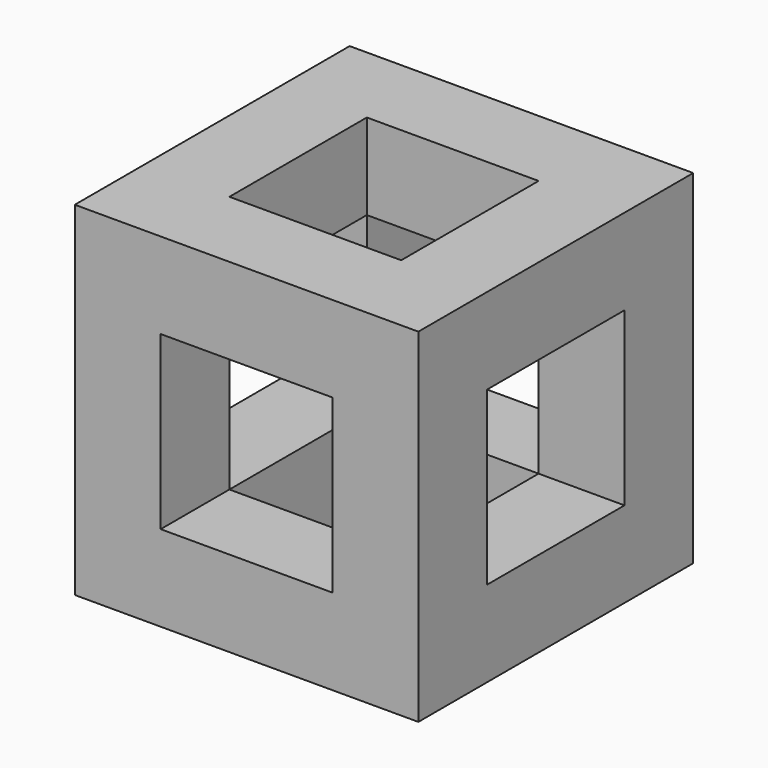
from build123d import *

# Parameters (mm, degrees)
F0_W     = 20
F0_H     = 20
F0_W_2   = 10
F0_H_2   = 10
F1_DEPTH = 20
F2_W     = 10
F2_H     = 10
F3_DEPTH = 20.001
F4_W     = 10
F4_H     = 10
F5_DEPTH = 20.001


with BuildPart() as f1:
    # F0 (on Top) → F1 (new body)
    with BuildSketch(Plane.XY):
        with Locations((10, 10)):
            Rectangle(F0_W, F0_H)
        with Locations((10, 10)):
            Rectangle(F0_W_2, F0_H_2, mode=Mode.SUBTRACT)
    extrude(amount=F1_DEPTH)

    # F2 (on face) → F3 (cut, through all)
    with BuildSketch(Plane.YZ.offset(20)):
        with Locations((10, 10)):
            Rectangle(F2_W, F2_H)
    extrude(amount=-F3_DEPTH, mode=Mode.SUBTRACT)

    # F4 (on face) → F5 (cut, through all)
    with BuildSketch(Plane(origin=(0, 20, 0), x_dir=(-1, 0, 0), z_dir=(0, 1, 0))):
        with Locations((-10, 10)):
            Rectangle(F4_W, F4_H)
    extrude(amount=-F5_DEPTH, mode=Mode.SUBTRACT)


solid = f1.part
